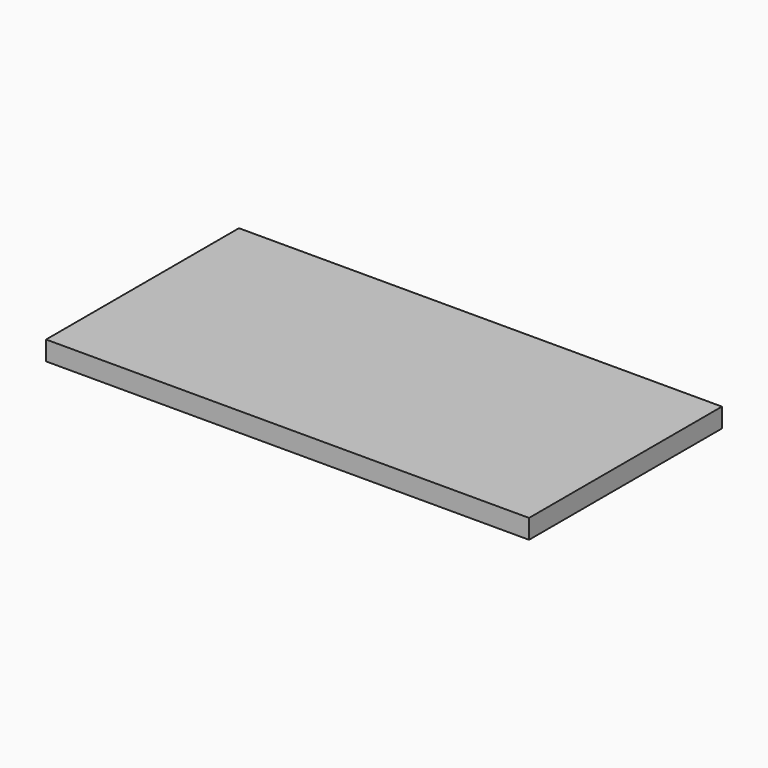
from build123d import *

# Parameters (mm, degrees)
F0_W     = 288
F0_H     = 24
F0_W_2   = 25
F1_DEPTH = 300


with BuildPart() as f1:
    # F0 (on Front) → F1 (new body)
    with BuildSketch(Plane.XZ):
        with Locations((-168.180556, 66.541666)):
            Rectangle(F0_W, F0_H)
        with Locations((-11.680556, 66.541666)):
            Rectangle(F0_W_2, F0_H)
        with Locations((144.819444, 66.541666)):
            Rectangle(F0_W, F0_H)
    extrude(amount=F1_DEPTH)


solid = f1.part
